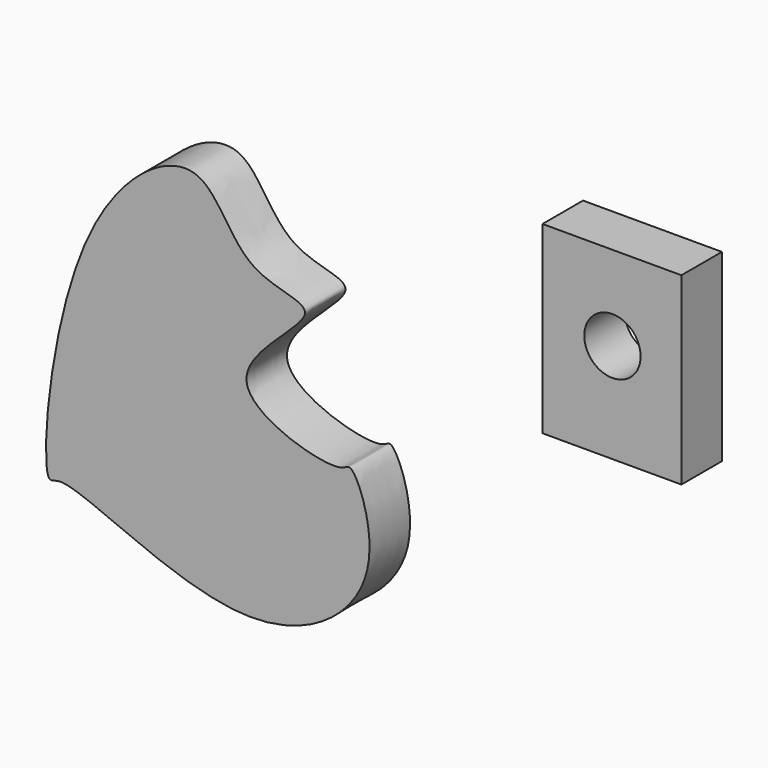
from build123d import *

# Parameters (mm, degrees)
F1_DEPTH = 25.4
F2_W     = 69.6718543768
F2_H     = 92.4342991784
F2_R     = 14.1255442664
F3_DEPTH = 25.4


with BuildPart() as f1:
    # F0 (on Front) → F1 (new body)
    with BuildSketch(Plane.XZ):
        with BuildLine():
            add(Edge.make_bspline(
                [(-111.6794273257, 17.7342128009), (-124.5250446309, 25.9177399332), (-135.8071716747, 68.1204832479), (-210.3146466019, 15.9640863229), (-220.4850023798, -117.48264025), (-206.2009113425, -101.9022670281), (-113.5334500873, -159.882949909), (-40.5532581349, -105.5390505613), (-62.8751029523, -49.5877110156), (-68.4443178738, -61.6413779587), (-147.5048100843, -38.2890169812), (-65.0952511469, 11.5797169631), (-101.2785441891, 11.1081467017), (-111.6794273257, 17.7342128009)],
                knots=[0, 0, 0, 0, 0.0872047031, 0.1978646723, 0.3420788808, 0.3742257405, 0.5061137569, 0.620599746, 0.7066800108, 0.7400767289, 0.8358336414, 0.9293917992, 1, 1, 1, 1], degree=3))
        make_face()
    extrude(amount=F1_DEPTH)


with BuildPart() as f3:
    # F2 (on Front) → F3 (new body)
    with BuildSketch(Plane.XZ):
        with Locations((67.5313696265, 37.6856043003)):
            Rectangle(F2_W, F2_H)
        with Locations((67.7749812603, 41.4100475609)):
            Circle(F2_R, mode=Mode.SUBTRACT)
    extrude(amount=F3_DEPTH)


solid = Compound([f1.part, f3.part])
